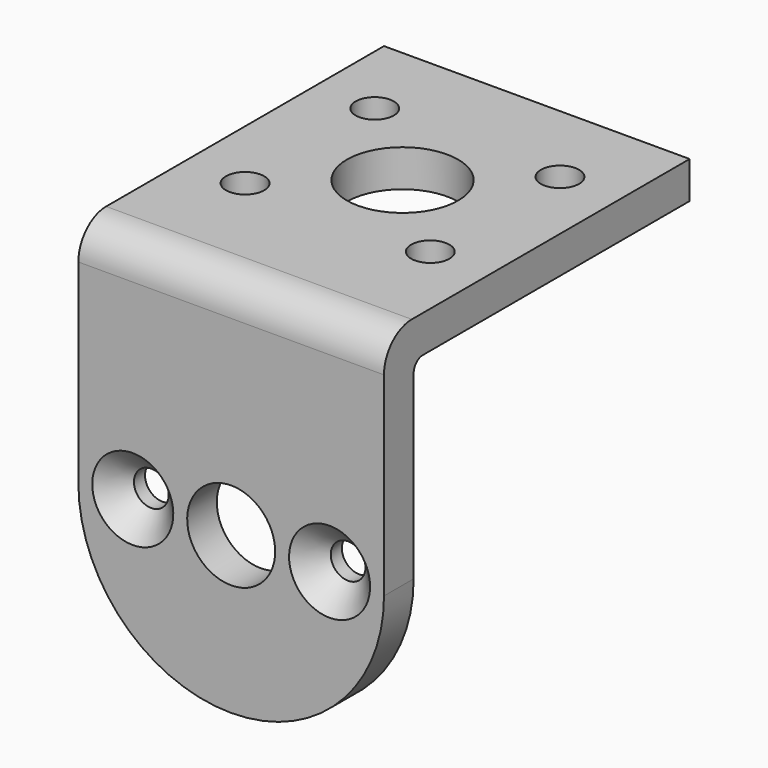
from build123d import *

# Parameters (mm, degrees)
PAD_DEPTH       = 13.2
SKETCH001_R     = 3.8
SKETCH001_R_2   = 1.5
POCKET_DEPTH    = 33.001
SKETCH002_R     = 4.8
SKETCH002_R_2   = 1.65
POCKET001_DEPTH = 33.001
CHAMFER_SIZE    = 2
FILLET_R        = 13.19


with BuildPart() as part:
    # Sketch → Pad (new body, symmetric)
    with BuildSketch(Plane.YZ):
        with BuildLine():
            Line((33, 0), (3, 0))
            ThreePointArc((3, 0), (0.87868, -0.87868), (0, -3))
            Line((0, -3), (0, -33))
            Line((0, -33), (3.2, -33))
            Line((3.2, -33), (3.2, -4.2))
            ThreePointArc((4.2, -3.2), (3.492893, -3.492893), (3.2, -4.2))
            Line((4.2, -3.2), (33, -3.2))
            Line((33, -3.2), (33, 0))
        make_face()
    extrude(amount=PAD_DEPTH, both=True)

    # Sketch001 (on Face5 of Pad) → Pocket (cut, through all)
    with BuildSketch(Plane(origin=(0, 0, 0), x_dir=(0, 0, -1), z_dir=(0, -1, 0))):
        with Locations((19.5, 0)):
            Circle(SKETCH001_R)
        with Locations((19.5, 8.5)):
            Circle(SKETCH001_R_2)
        with Locations((19.5, -8.5)):
            Circle(SKETCH001_R_2)
    extrude(amount=-POCKET_DEPTH, mode=Mode.SUBTRACT)

    # Sketch002 (on Face7 of Pocket) → Pocket001 (cut, through all)
    with BuildSketch(Plane(origin=(0, 0, 0), x_dir=(0, -1, 0), z_dir=(0, 0, 1))):
        with Locations((-18.5, 0)):
            Circle(SKETCH002_R)
        with Locations((-11.5, 8)):
            Circle(SKETCH002_R_2)
        with Locations((-25.5, 8)):
            Circle(SKETCH002_R_2)
        with Locations((-25.5, -8)):
            Circle(SKETCH002_R_2)
        with Locations((-11.5, -8)):
            Circle(SKETCH002_R_2)
    extrude(amount=-POCKET001_DEPTH, mode=Mode.SUBTRACT)

    # Chamfer
    chamfer_edges = [part.edges().sort_by_distance(p)[0] for p in [
        (-8.5, 0, -18),
        (8.5, 0, -18),
    ]]
    chamfer(chamfer_edges, length=CHAMFER_SIZE)

    # Fillet
    fillet_edges = [part.edges().sort_by_distance(p)[0] for p in [
        (-13.2, 1.6, -33),
        (13.2, 1.6, -33),
    ]]
    fillet(fillet_edges, radius=FILLET_R)


solid = part.part
